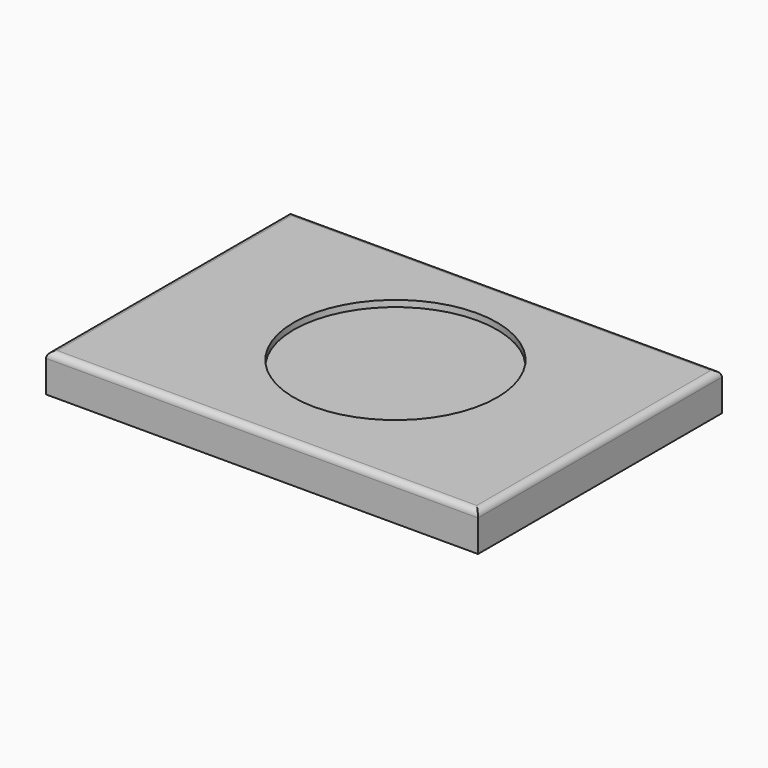
from build123d import *

# Parameters (mm, degrees)
F0_W     = 215.9
F0_H     = 19.05
F1_DEPTH = 152.4
F2_W     = 190.5
F2_H     = 127
F3_DEPTH = 6.35
F4_W     = 25.4
F4_H     = 12.7
F5_DEPTH = 0.15875
F6_R     = 3.175
F7_R     = 50.8
F8_DEPTH = 3.175


with BuildPart() as f1:
    # F0 (on Front) → F1 (new body)
    with BuildSketch(Plane.XZ):
        Rectangle(F0_W, F0_H)
    extrude(amount=F1_DEPTH)

    # F2 (on face) → F3 (cut)
    with BuildSketch(Plane(origin=(0, 0, -9.525), x_dir=(1, 0, 0), z_dir=(0, 0, -1))):
        with Locations((0, 76.2)):
            Rectangle(F2_W, F2_H)
    extrude(amount=-F3_DEPTH, mode=Mode.SUBTRACT)

    # F4 (on face) → F5 (cut)
    with BuildSketch(Plane(origin=(0, 0, -9.525), x_dir=(1, 0, 0), z_dir=(0, 0, -1))):
        with Locations((-57.15, 6.35)):
            Rectangle(F4_W, F4_H)
        with Locations((57.15, 6.35)):
            Rectangle(F4_W, F4_H)
    extrude(amount=-F5_DEPTH, mode=Mode.SUBTRACT)

    # F6
    f6_edges = [f1.edges().sort_by_distance(p)[0] for p in [
        (107.95, -76.2, 9.525),
        (-107.95, -76.2, 9.525),
        (0, 0, 9.525),
        (0, -152.4, 9.525),
    ]]
    fillet(f6_edges, radius=F6_R)

    # F7 (on face) → F8 (cut)
    with BuildSketch(Plane.XY.offset(9.525)):
        with Locations((3.175, -73.025)):
            Circle(F7_R)
    extrude(amount=-F8_DEPTH, mode=Mode.SUBTRACT)


solid = f1.part
